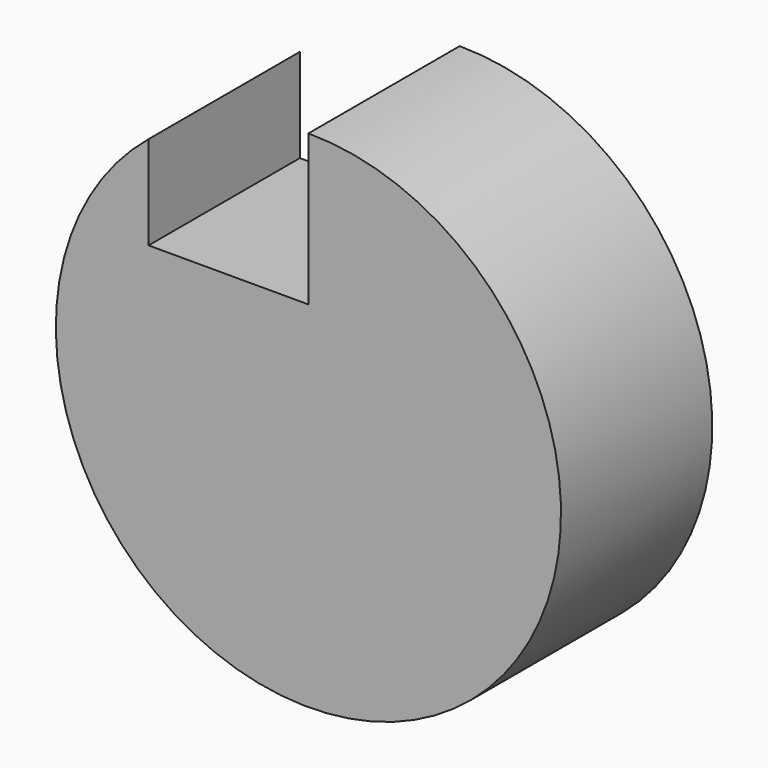
from build123d import *

# Parameters (mm, degrees)
F0_R     = 33.398648
F1_DEPTH = 25
F2_W     = 21.133123
F2_H     = 19.910445
F2_H_2   = 17.300117
F3_DEPTH = 25


with BuildPart() as f1:
    # F0 (on Front) → F1 (new body)
    with BuildSketch(Plane.XZ):
        Circle(F0_R)
        Circle(F0_R)
    extrude(amount=F1_DEPTH)

    # F2 (on face) → F3 (cut)
    with BuildSketch(Plane.XZ.offset(25)):
        with Locations((-10.566561, 23.443426)):
            Rectangle(F2_W, F2_H)
        Polygon((-21.133123, 33.398648), (0, 33.398648), (0, 50.698765), (-8.666247, 50.698765), (-21.133123, 50.698765), align=None)
        with Locations((-31.699684, 42.048706)):
            Rectangle(F2_W, F2_H_2)
    extrude(amount=-F3_DEPTH, mode=Mode.SUBTRACT)


solid = f1.part
